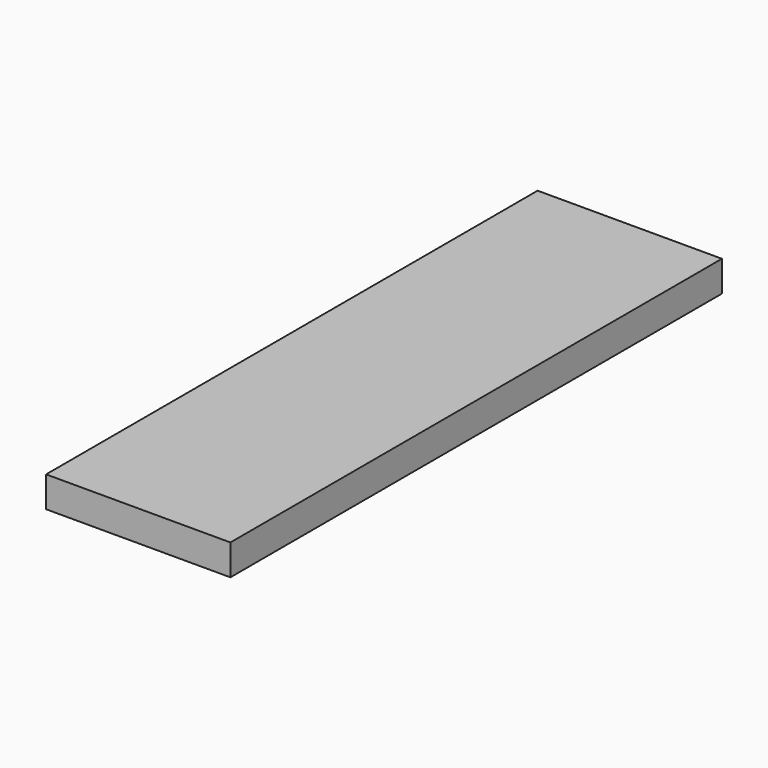
from build123d import *

# Parameters (mm, degrees)
SKETCH_W  = 12
SKETCH_H  = 40
PAD_DEPTH = 2


with BuildPart() as part:
    # Sketch → Pad (new body)
    with BuildSketch(Plane.XY):
        Rectangle(SKETCH_W, SKETCH_H)
    extrude(amount=PAD_DEPTH)


solid = part.part
